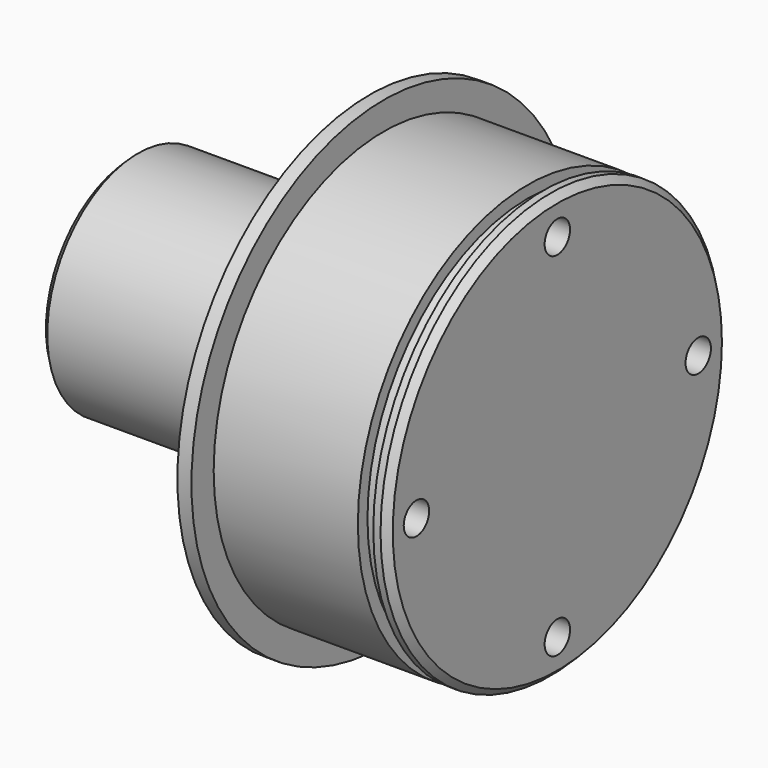
from build123d import *

# Parameters (mm, degrees)
F0_R      = 12.7
F1_DEPTH  = 26.7208
F2_R      = 26.924
F2_R_2    = 12.7
F3_DEPTH  = 1.5748
F4_R      = 23.8125
F5_DEPTH  = 16.1544
F6_R      = 22.4663
F7_DEPTH  = 1.7272
F8_R      = 23.8125
F9_DEPTH  = 1.5748
F10_SIZE  = 0.762
F11_SIZE  = 0.762
F12_R     = 1.778
F13_DEPTH = 21.0322


with BuildPart() as f1:
    # F0 (on Right) → F1 (new body)
    with BuildSketch(Plane.YZ):
        Circle(F0_R)
    extrude(amount=F1_DEPTH)

    # F2 (on face) → F3 (join)
    with BuildSketch(Plane.YZ.offset(26.7208)):
        Circle(F2_R)
        Circle(F2_R_2, mode=Mode.SUBTRACT)
        Circle(F2_R_2)
    extrude(amount=F3_DEPTH)

    # F4 (on face) → F5 (join)
    with BuildSketch(Plane.YZ.offset(28.2956)):
        Circle(F4_R)
    extrude(amount=F5_DEPTH)

    # F6 (on face) → F7 (join)
    with BuildSketch(Plane.YZ.offset(44.45)):
        Circle(F6_R)
    extrude(amount=F7_DEPTH)

    # F8 (on face) → F9 (join)
    with BuildSketch(Plane.YZ.offset(46.1772)):
        Circle(F8_R)
    extrude(amount=F9_DEPTH)

    # F10
    f10_edges = [f1.edges().sort_by_distance(p)[0] for p in [
        (47.752, -23.8125, 0),
    ]]
    chamfer(f10_edges, length=F10_SIZE)

    # F11
    f11_edges = [f1.edges().sort_by_distance(p)[0] for p in [
        (0, -12.7, 0),
    ]]
    chamfer(f11_edges, length=F11_SIZE)

    # F12 (on face) → F13 (cut, through all)
    with BuildSketch(Plane(origin=(26.7208, 0, 0), x_dir=(0, -1, 0), z_dir=(-1, 0, 0))):
        with Locations((0, 19.7358)):
            Circle(F12_R)
        with Locations((19.7358, 0)):
            Circle(F12_R)
        with Locations((0, -19.7358)):
            Circle(F12_R)
        with Locations((-19.7358, 0)):
            Circle(F12_R)
    extrude(amount=-F13_DEPTH, mode=Mode.SUBTRACT)


solid = f1.part
